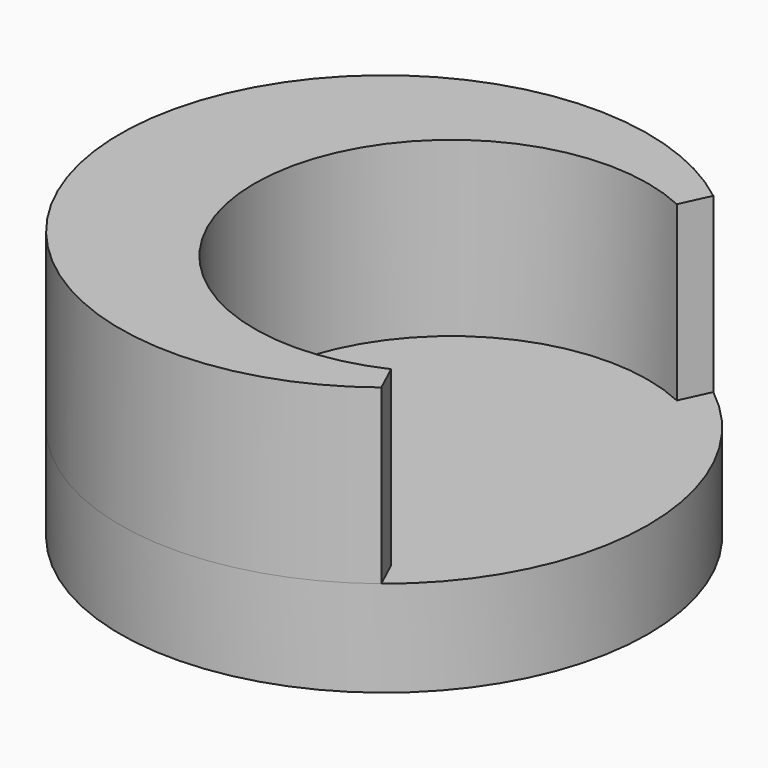
from build123d import *

# Parameters (mm, degrees)
SKETCH_R     = 5.5
PAD_DEPTH    = 2
PAD001_DEPTH = 3.6


with BuildPart() as part:
    # Sketch → Pad (new body)
    with BuildSketch(Plane.XY):
        Circle(SKETCH_R)
    extrude(amount=PAD_DEPTH)

    # Sketch001 (on Face3 of Pad) → Pad001 (join)
    with BuildSketch(Plane.XY.offset(2)):
        with BuildLine():
            ThreePointArc((3.122117, 3.720795), (-2.7, 0), (3.122117, -3.720795))
            Line((3.122117, -3.720795), (3.400681, -4.322658))
            ThreePointArc((3.400681, 4.322658), (-5.5, 0), (3.400681, -4.322658))
            Line((3.122117, 3.720795), (3.400681, 4.322658))
        make_face()
    extrude(amount=PAD001_DEPTH)


solid = part.part
